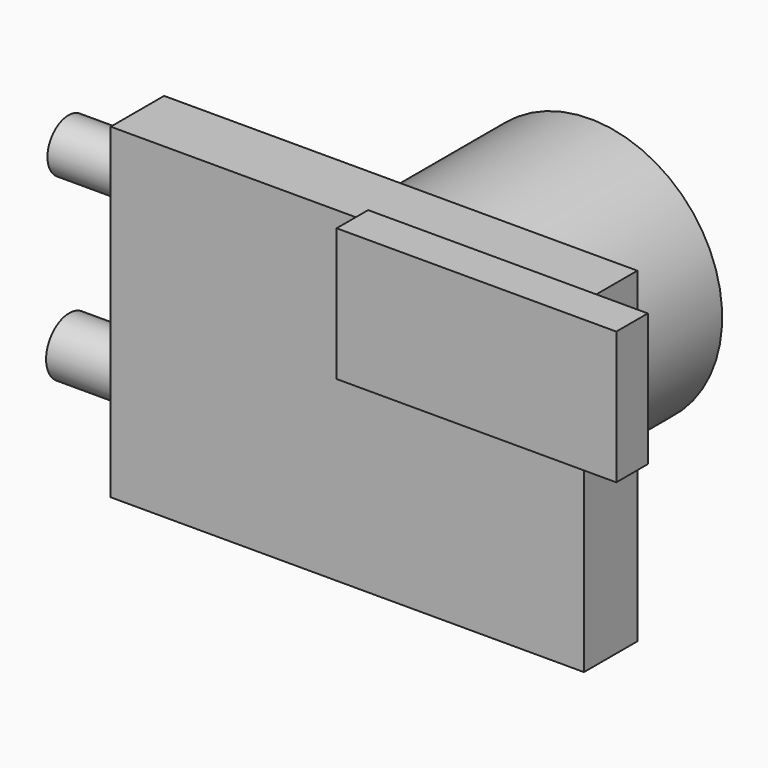
from build123d import *

# Parameters (mm, degrees)
F0_W     = 180.17289
F0_H     = 124.226056
F1_DEPTH = 25.4
F2_R     = 9.959401
F2_R_2   = 10.991396
F3_DEPTH = 25.4
F4_R     = 50.24432
F5_DEPTH = 90.17
F6_W     = 106.479473
F6_H     = 50.532631
F7_DEPTH = 14.986


with BuildPart() as f1:
    # F0 (on Front) → F1 (new body)
    with BuildSketch(Plane.XZ):
        Rectangle(F0_W, F0_H)
    extrude(amount=F1_DEPTH)

    # F2 (on face) → F3 (join)
    with BuildSketch(Plane(origin=(-90.086445, 0, 0), x_dir=(0, -1, 0), z_dir=(-1, 0, 0))):
        with Locations((13.798693, 43.003704)):
            Circle(F2_R)
        with Locations((13.422888, -24.505027)):
            Circle(F2_R_2)
    extrude(amount=F3_DEPTH)

    # F4 (on face) → F5 (join)
    with BuildSketch(Plane(origin=(0, 0, 0), x_dir=(-1, 0, 0), z_dir=(0, 1, 0))):
        with Locations((0, -3.158289)):
            Circle(F4_R)
    extrude(amount=F5_DEPTH)

    # F6 (on face) → F7 (join)
    with BuildSketch(Plane.XZ.offset(25.4)):
        with Locations((61.143819, 40.756974)):
            Rectangle(F6_W, F6_H)
    extrude(amount=F7_DEPTH)


solid = f1.part
